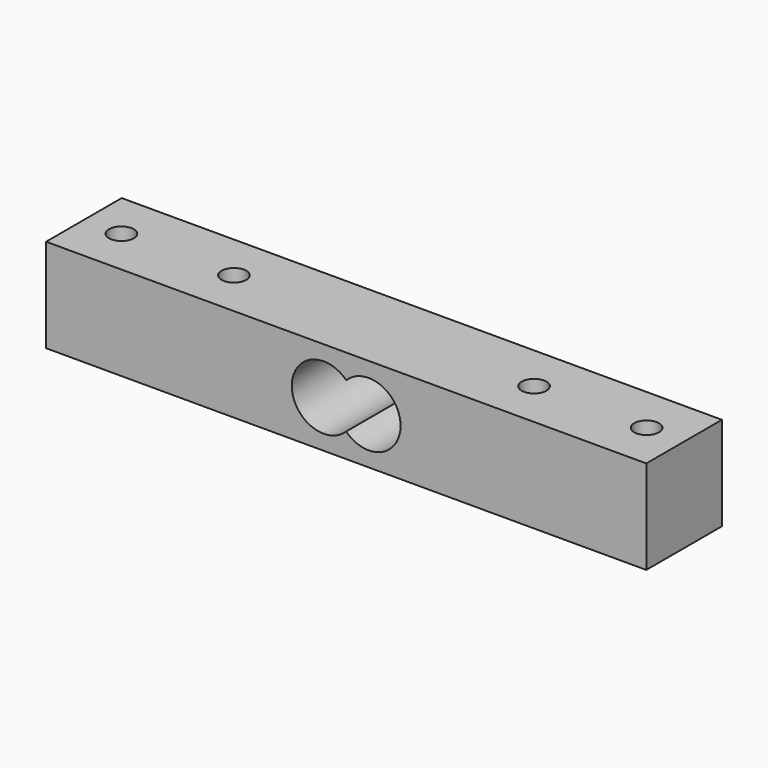
from build123d import *

# Parameters (mm, degrees)
F0_W     = 80
F0_H     = 12.6
F1_DEPTH = 12.5
F3_DEPTH = 12.6
F4_D     = 3.3


with BuildPart() as f1:
    # F0 (on Top) → F1 (new body)
    with BuildSketch(Plane.XY):
        Rectangle(F0_W, F0_H)
    extrude(amount=F1_DEPTH)

    # F2 (on face) → F3 (cut, through all)
    with BuildSketch(Plane.XZ.offset(6.3)):
        with BuildLine():
            ThreePointArc((0, 3.2396013553), (4.6298006013, 2.324920383), (7.25, 6.25))
            ThreePointArc((7.25, 6.25), (4.6298006013, 10.175079617), (0, 9.2603986447))
            ThreePointArc((0, 9.2603986447), (0.925079617, 7.8798006013), (1.25, 6.25))
            ThreePointArc((1.25, 6.25), (0.925079617, 4.6201993987), (0, 3.2396013553))
        make_face()
        with BuildLine():
            ThreePointArc((1.25, 6.25), (0.925079617, 7.8798006013), (0, 9.2603986447))
            ThreePointArc((0, 9.2603986447), (-1.25, 6.25), (0, 3.2396013553))
            ThreePointArc((0, 3.2396013553), (0.925079617, 4.6201993987), (1.25, 6.25))
        make_face()
        with BuildLine():
            ThreePointArc((0, 3.2396013553), (-1.25, 6.25), (0, 9.2603986447))
            ThreePointArc((0, 9.2603986447), (-7.25, 6.25), (0, 3.2396013553))
        make_face()
    extrude(amount=-F3_DEPTH, mode=Mode.SUBTRACT)

    # F4 (through all)
    with Locations(Plane(origin=(0, 0, 0), x_dir=(1, 0, 0), z_dir=(0, 0, -1))):
        with Locations((-20, 0), (-35, 0), (20, 0), (35, 0)):
            Hole(F4_D / 2)


solid = f1.part
